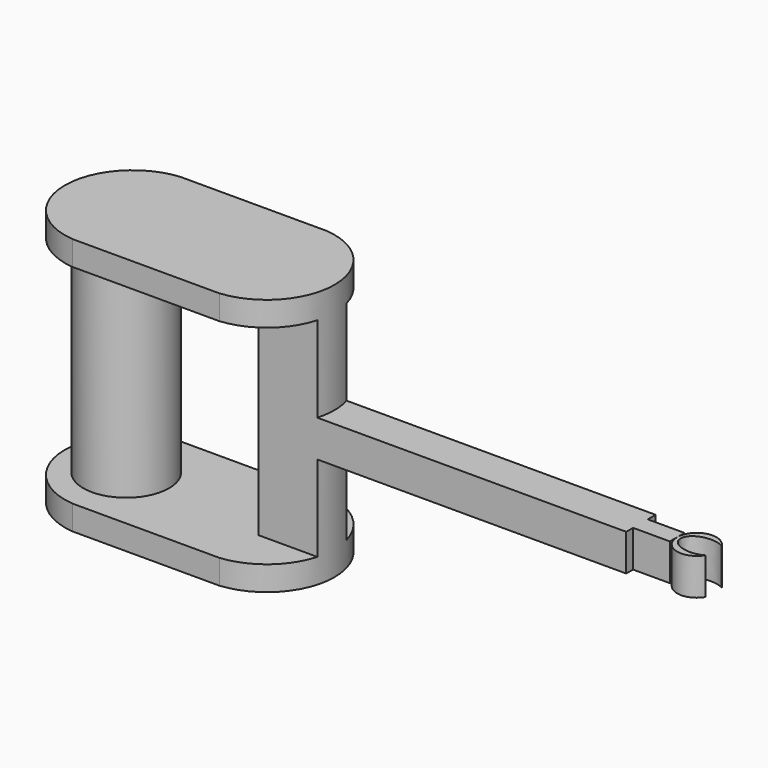
from build123d import *

# Parameters (mm, degrees)
F0_W      = 38.1
F0_H      = 3.81
F1_DEPTH  = 1.905
F3_DEPTH  = 11.43
F5_DEPTH  = 11.43
F6_DEPTH  = 8.89
F7_DEPTH  = 8.89
F8_R      = 4.445
F9_DEPTH  = 21.59
F11_DEPTH = 3.81


with BuildPart() as f1:
    # F0 (on Front) → F1 (new body, symmetric)
    with BuildSketch(Plane.XZ):
        with Locations((51.1266756803, 18.5499984162)):
            Rectangle(F0_W, F0_H)
    extrude(amount=F1_DEPTH, both=True)

    # F2 (on face) → F3 (join)
    with BuildSketch(Plane.XY.offset(20.4549984162)):
        with BuildLine():
            Line((16.8366756803, -6.985), (32.0766756803, -6.985))
            ThreePointArc((32.0766756803, -6.985), (38.4266756803, 0), (32.0766756803, 6.985))
            Line((32.0766756803, 6.985), (16.8366756803, 6.985))
            ThreePointArc((16.8366756803, 6.985), (10.4866756803, 0), (16.8366756803, -6.985))
        make_face()
    extrude(amount=F3_DEPTH)

    # F4 (on face) → F5 (join)
    with BuildSketch(Plane(origin=(0, 0, 16.6449984162), x_dir=(1, 0, 0), z_dir=(0, 0, -1))):
        with BuildLine():
            ThreePointArc((32.0766756803, -6.985), (38.4266756803, 0), (32.0766756803, 6.985))
            Line((32.0766756803, 6.985), (16.8366756803, 6.985))
            ThreePointArc((16.8366756803, 6.985), (10.4866756803, 0), (16.8366756803, -6.985))
            Line((16.8366756803, -6.985), (32.0766756803, -6.985))
        make_face()
    extrude(amount=F5_DEPTH)

    # F6 (cut): a face of the model
    f6_faces = [f1.faces().sort_by_distance(p)[0] for p in [
        (23.6673527755, 0, 20.4549984162),
    ]]
    extrude(f6_faces, amount=-F6_DEPTH, mode=Mode.SUBTRACT)

    # F7 (cut): a face of the model
    f7_faces = [f1.faces().sort_by_distance(p)[0] for p in [
        (23.6673527755, 0, 16.6449984162),
    ]]
    extrude(f7_faces, amount=-F7_DEPTH, mode=Mode.SUBTRACT)

    # F8 (on face) → F9 (join, through all)
    with BuildSketch(Plane(origin=(0, 0, 29.3449984162), x_dir=(1, 0, 0), z_dir=(0, 0, -1))):
        with Locations((16.8366756803, 0)):
            Circle(F8_R)
    extrude(amount=F9_DEPTH)

    # F10 (on face) → F11 (join)
    with BuildSketch(Plane.XY.offset(20.4549984162)):
        Polygon((70.1766756803, 0.889), (70.1766756803, -1.016), (73.9866756803, -1.016), (73.9866756803, -0.0634999731), (73.9866756803, 0.889), align=None)
    extrude(amount=-F11_DEPTH)

    # F10 (on face) → F11, piece 2 (join)
    with BuildSketch(Plane.XY.offset(20.4549984162)):
        with BuildLine():
            ThreePointArc((77.7586875264, 0.9859678533), (75.4740106913, 1.8941424724), (73.9866756803, -0.0634999731))
            ThreePointArc((73.9866756803, -0.0634999731), (75.4740106654, -2.0211424652), (77.7586875264, -1.1129678533))
            add(Edge.make_bspline(
                [(74.3311792612, -0.0635), (74.3311792612, -3.1232148683), (77.7586875264, -1.1129678533)],
                knots=[0, 0, 0, 2.2876350152, 2.2876350152, 2.2876350152], degree=2, weights=[1, 0.4141227542, 1]))
            add(Edge.make_bspline(
                [(77.7586875264, 0.9859678533), (74.3311792612, 2.9962148683), (74.3311792612, -0.0635)],
                knots=[3.995550292, 3.995550292, 3.995550292, 6.2831853072, 6.2831853072, 6.2831853072], degree=2, weights=[1, 0.4141227542, 1]))
        make_face()
    extrude(amount=-F11_DEPTH)


solid = f1.part
